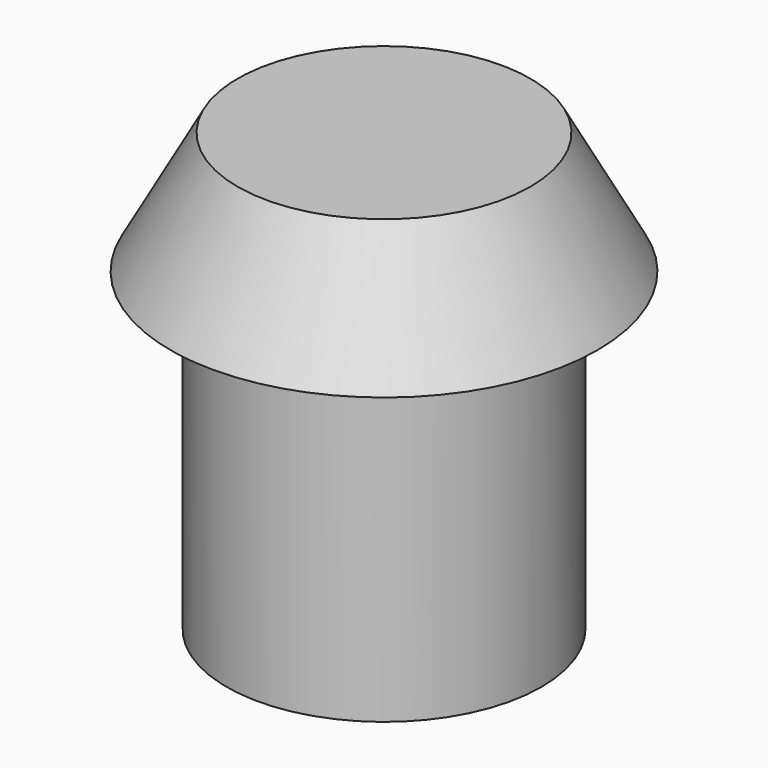
from build123d import *

# Parameters (mm, degrees)
CYLINDER_R     = 6.45
CYLINDER_DEPTH = 12.9


with BuildPart() as cone:
    # Cone → Cone (revolve)
    with BuildSketch(Plane.XZ):
        Polygon((0, 0), (8.75, 0), (6, 5), (0, 5), align=None)
    revolve(axis=Axis((0, 0, 0), (0, 0, 1)))


with BuildPart() as fusion:
    # Cylinder → Cylinder (new body)
    with BuildSketch(Plane.XY.offset(-12.9)):
        Circle(CYLINDER_R)
    extrude(amount=CYLINDER_DEPTH)

    # Fusion: union Cone
    add(cone.part)


solid = fusion.part
